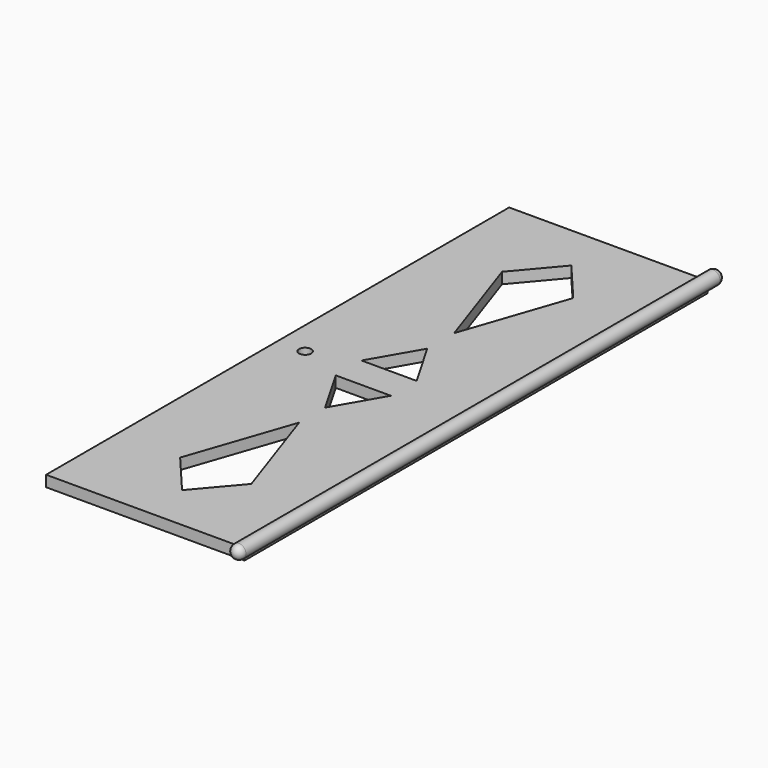
from build123d import *

# Parameters (mm, degrees)
F0_W     = 45.72
F0_H     = 133.35
F1_DEPTH = 2.54
F2_R     = 1.5875
F3_DEPTH = 136.525
F4_DEPTH = 3.175
F5_R     = 1.5875
F7_DEPTH = 25.4
F9_DEPTH = 25.4


with BuildPart() as f1:
    # F0 (on Top) → F1 (new body)
    with BuildSketch(Plane.XY):
        Rectangle(F0_W, F0_H)
    extrude(amount=F1_DEPTH)

    # F2 (on face) → F3 (join)
    with BuildSketch(Plane.XZ.offset(66.675)):
        with Locations((22.86, 2.54)):
            Circle(F2_R)
    extrude(amount=-F3_DEPTH)

    # F2 (on face) → F4 (join)
    with BuildSketch(Plane.XZ.offset(66.675)):
        with Locations((22.86, 2.54)):
            Circle(F2_R)
    extrude(amount=F4_DEPTH)

    # F5
    f5_edges = [f1.edges().sort_by_distance(p)[0] for p in [
        (21.2725, -69.85, 2.54),
        (21.2725, 69.85, 2.54),
    ]]
    fillet(f5_edges, radius=F5_R)

    # F6 (on face) → F7 (cut)
    with BuildSketch(Plane(origin=(0, 0, 0), x_dir=(1, 0, 0), z_dir=(0, 0, -1))):
        with BuildLine():
            ThreePointArc((-17.907, 0), (-16.51, -1.397), (-15.113, 0))
            ThreePointArc((-15.113, 0), (-16.51, 1.397), (-17.907, 0))
        make_face()
    extrude(amount=-F7_DEPTH, mode=Mode.SUBTRACT)

    # F8 (on face) → F9 (cut)
    with BuildSketch(Plane(origin=(0, 0, 0), x_dir=(1, 0, 0), z_dir=(0, 0, -1))):
        Polygon((8.20166, 46.397122), (0, 56.093656), (-8.20166, 46.397122), (0, 22.357721), align=None)
        Polygon((-8.20166, -46.310099), (0, -56.006633), (8.20166, -46.310099), (0, -22.270698), align=None)
        Polygon((-6.35, -3.517313), (0, -14.515836), (6.35, -3.517313), align=None)
        Polygon((6.35, 3.899692), (0, 14.898214), (-6.35, 3.899692), align=None)
    extrude(amount=-F9_DEPTH, mode=Mode.SUBTRACT)


solid = f1.part
